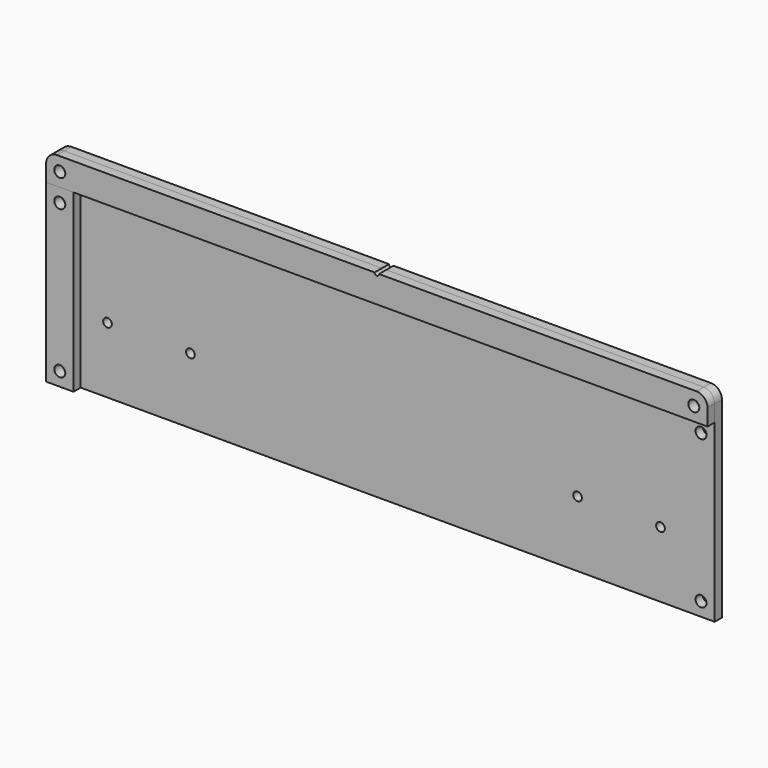
from build123d import *

# Parameters (mm, degrees)
F2_R     = 3.175
F2_R_2   = 2.5
F3_DEPTH = 5.207
F4_R     = 3.175
F5_DEPTH = 5.207
F6_W     = 15.875
F6_H     = 101.6
F6_R     = 3.175
F7_DEPTH = 5.207


with BuildPart() as f3:
    # F2 (on Front) → F3 (new body)
    with BuildSketch(Plane.XZ):
        with BuildLine():
            Line((-1.27, 117.475), (-185.025, 117.475))
            ThreePointArc((-185.025, 117.475), (-189.5151280605, 115.6151280605), (-191.375, 111.125))
            Line((-191.375, 111.125), (-191.375, 0))
            Line((-191.375, 0), (191.375, 0))
            Line((191.375, 0), (191.375, 111.125))
            ThreePointArc((191.375, 111.125), (189.5151280605, 115.6151280605), (185.025, 117.475))
            Line((185.025, 117.475), (1.27, 117.475))
            ThreePointArc((1.27, 117.475), (0, 116.205), (-1.27, 117.475))
        make_face()
        with Locations((-183.4375, 7.9375)):
            Circle(F2_R, mode=Mode.SUBTRACT)
        with Locations((-160, 38.1)):
            Circle(F2_R_2, mode=Mode.SUBTRACT)
        with Locations((-112, 38.1)):
            Circle(F2_R_2, mode=Mode.SUBTRACT)
        with Locations((183.4375, 7.9375)):
            Circle(F2_R, mode=Mode.SUBTRACT)
        with Locations((112, 38.1)):
            Circle(F2_R_2, mode=Mode.SUBTRACT)
        with Locations((160, 38.1)):
            Circle(F2_R_2, mode=Mode.SUBTRACT)
        with Locations((-183.4375, 93.6625)):
            Circle(F2_R, mode=Mode.SUBTRACT)
        with Locations((-183.4375, 109.5375)):
            Circle(F2_R, mode=Mode.SUBTRACT)
        with Locations((183.4375, 93.6625)):
            Circle(F2_R, mode=Mode.SUBTRACT)
        with Locations((183.4375, 109.5375)):
            Circle(F2_R, mode=Mode.SUBTRACT)
    extrude(amount=F3_DEPTH)


with BuildPart() as f5:
    # F4 (on face) → F5 (new body)
    with BuildSketch(Plane.XZ.offset(5.207)):
        with BuildLine():
            Line((185.025, 117.475), (1.27, 117.475))
            ThreePointArc((1.27, 117.475), (0, 116.205), (-1.27, 117.475))
            Line((-1.27, 117.475), (-185.025, 117.475))
            ThreePointArc((-185.025, 117.475), (-189.5151280605, 115.6151280605), (-191.375, 111.125))
            Line((-191.375, 111.125), (-191.375, 101.6))
            Line((-191.375, 101.6), (191.375, 101.6))
            Line((191.375, 101.6), (191.375, 111.125))
            ThreePointArc((191.375, 111.125), (189.5151280605, 115.6151280605), (185.025, 117.475))
        make_face()
        with Locations((-183.4375, 109.5375)):
            Circle(F4_R, mode=Mode.SUBTRACT)
        with Locations((183.4375, 109.5375)):
            Circle(F4_R, mode=Mode.SUBTRACT)
    extrude(amount=F5_DEPTH)


with BuildPart() as f7:
    # F6 (on face) → F7 (new body)
    with BuildSketch(Plane.XZ.offset(5.207)):
        with Locations((-183.4375, 50.8)):
            Rectangle(F6_W, F6_H)
        with Locations((-183.4375, 7.9375)):
            Circle(F6_R, mode=Mode.SUBTRACT)
        with Locations((-183.4375, 93.6625)):
            Circle(F6_R, mode=Mode.SUBTRACT)
    extrude(amount=F7_DEPTH)


solid = Compound([f3.part, f5.part, f7.part])
